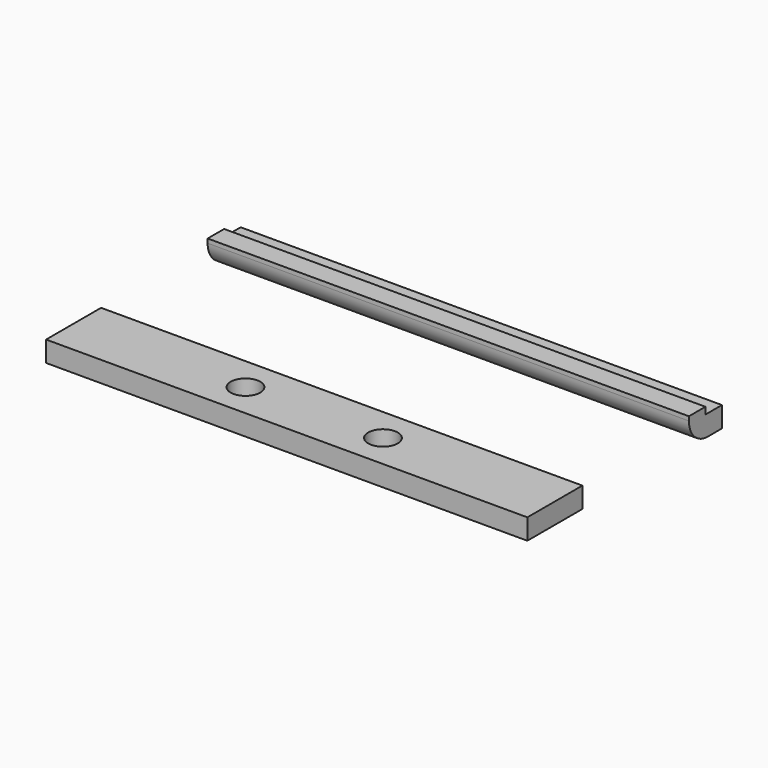
from build123d import *

# Parameters (mm, degrees)
F0_W     = 70
F0_H     = 10
F0_R     = 2.15
F1_DEPTH = 3
F0_H_2   = 3
F2_DEPTH = 3
F3_DEPTH = 4
F4_R     = 3.4


with BuildPart() as f1:
    # F0 (on Top) → F1 (new body)
    with BuildSketch(Plane.XY):
        Rectangle(F0_W, F0_H)
        with Locations((-10, 0)):
            Circle(F0_R, mode=Mode.SUBTRACT)
        with Locations((10, 0)):
            Circle(F0_R, mode=Mode.SUBTRACT)
    extrude(amount=F1_DEPTH)


with BuildPart() as f2:
    # F0 (on Top) → F2 (new body)
    with BuildSketch(Plane.XY):
        with Locations((0, 25.87104)):
            Rectangle(F0_W, F0_H_2)
        with Locations((0, 28.87104)):
            Rectangle(F0_W, F0_H_2)
    extrude(amount=F2_DEPTH)

    # F0 (on Top) → F3 (join)
    with BuildSketch(Plane.XY):
        with Locations((0, 25.87104)):
            Rectangle(F0_W, F0_H_2)
    extrude(amount=F3_DEPTH)

    # F4
    f4_edges = [f2.edges().sort_by_distance(p)[0] for p in [
        (0, 24.37104, 0),
    ]]
    fillet(f4_edges, radius=F4_R)


solid = Compound([f1.part, f2.part])
